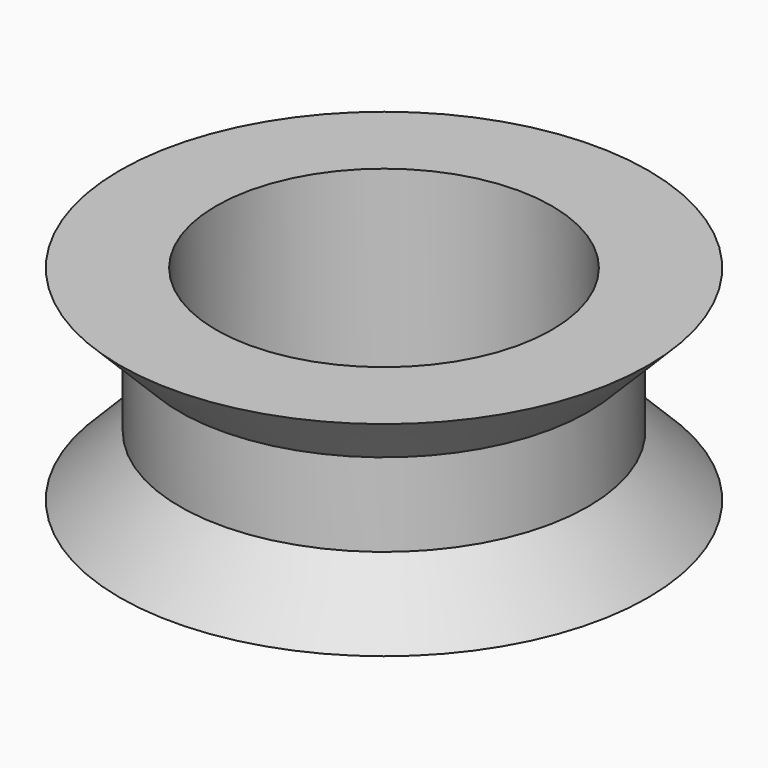
from build123d import *

# Parameters (mm, degrees)
F0_R      = 20.3835
F2_R      = 15.748
F4_DEPTH  = 6.4262
F6_R      = 20.3835
F4_FACE_R = 15.748
F9_D      = 25.908


with BuildPart() as f3:
    # F0 (on Top) → F3 section 0
    with BuildSketch(Plane.XY):
        Circle(F0_R)
    # F2 (on offset) → F3 section 1
    with BuildSketch(Plane.XY.offset(4.6736)):
        Circle(F2_R)
    loft()

    # F4 (add): a face of the model
    f4_faces = [f3.faces().sort_by_distance(p)[0] for p in [
        (0, 0, 4.6736),
    ]]
    extrude(f4_faces, amount=F4_DEPTH)

    # F6 (on offset) → F7 section 0
    with BuildSketch(Plane.XY.offset(15.7734)):
        Circle(F6_R)
    # F4_face (on face) → F7 section 1
    with BuildSketch(Plane.XY.offset(11.0998)):
        Circle(F4_FACE_R)
    loft()

    # F9 (through all)
    with Locations(Plane.XY.offset(15.7734)):
        with Locations((0, 0)):
            Hole(F9_D / 2)


solid = f3.part
